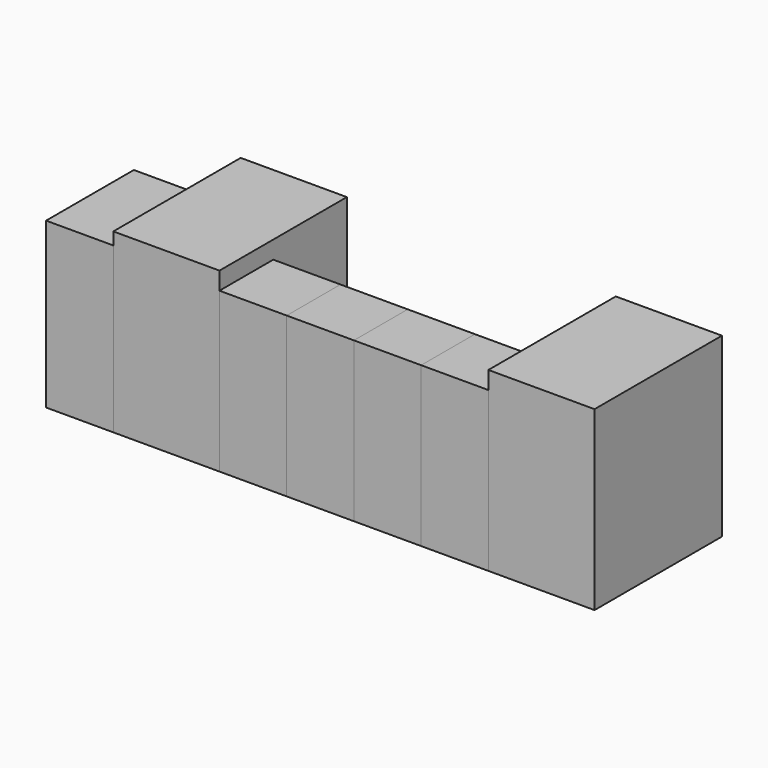
from build123d import *

# Parameters (mm, degrees)
F0_W     = 965.2
F0_H     = 2362.2
F1_DEPTH = 1574.8
F2_DEPTH = 2286
F0_H_2   = 2286
F3_DEPTH = 965.2
F4_DEPTH = 965.2
F5_DEPTH = 965.2
F6_DEPTH = 965.2
F7_DEPTH = 2286


with BuildPart() as f1:
    # F0 (on Front) → F1 (new body)
    with BuildSketch(Plane.XZ):
        with Locations((482.6, 1181.1)):
            Rectangle(F0_W, F0_H)
    extrude(amount=-F1_DEPTH)


with BuildPart() as f2:
    # F0 (on Front) → F2 (new body)
    with BuildSketch(Plane.XZ):
        Polygon((965.2, 2362.2), (965.2, 0), (2489.2, 0), (2489.2, 2286), (2489.2, 2540), (965.2, 2540), align=None)
    extrude(amount=-F2_DEPTH)


with BuildPart() as f3:
    # F0 (on Front) → F3 (new body)
    with BuildSketch(Plane.XZ):
        with Locations((2971.8, 1143)):
            Rectangle(F0_W, F0_H_2)
    extrude(amount=-F3_DEPTH)


with BuildPart() as f4:
    # F0 (on Front) → F4 (new body)
    with BuildSketch(Plane.XZ):
        with Locations((3937, 1143)):
            Rectangle(F0_W, F0_H_2)
    extrude(amount=-F4_DEPTH)


with BuildPart() as f5:
    # F0 (on Front) → F5 (new body)
    with BuildSketch(Plane.XZ):
        with Locations((4902.2, 1143)):
            Rectangle(F0_W, F0_H_2)
    extrude(amount=-F5_DEPTH)


with BuildPart() as f6:
    # F0 (on Front) → F6 (new body)
    with BuildSketch(Plane.XZ):
        with Locations((5867.4, 1143)):
            Rectangle(F0_W, F0_H_2)
    extrude(amount=-F6_DEPTH)


with BuildPart() as f7:
    # F0 (on Front) → F7 (new body)
    with BuildSketch(Plane.XZ):
        Polygon((6350, 2286), (6350, 0), (7874, 0), (7874, 2540), (6350, 2540), align=None)
    extrude(amount=-F7_DEPTH)


solid = Compound([f1.part, f2.part, f3.part, f4.part, f5.part, f6.part, f7.part])
